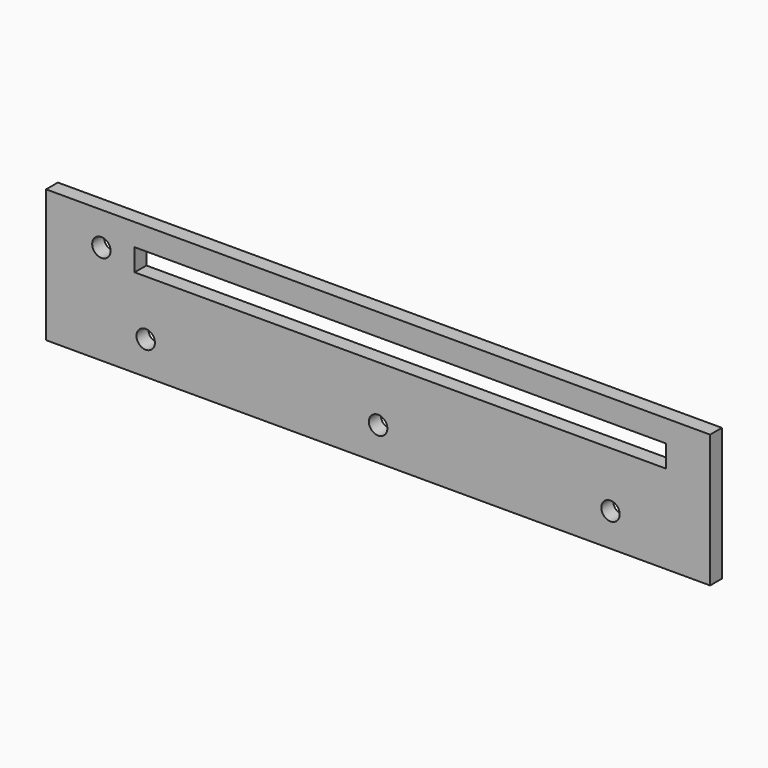
from build123d import *

# Parameters (mm, degrees)
F0_W     = 84
F0_H     = 9
F0_R     = 1.25
F0_W_2   = 72
F0_H_2   = 3
F1_DEPTH = 2


with BuildPart() as f1:
    # F0 (on Front) → F1 (new body)
    with BuildSketch(Plane.XZ):
        Rectangle(F0_W, F0_H)
        with Locations((-37.5, 0)):
            Circle(F0_R, mode=Mode.SUBTRACT)
        with Locations((3, 0)):
            Rectangle(F0_W_2, F0_H_2, mode=Mode.SUBTRACT)
        Polygon((45, 4.5), (42, 4.5), (42, -4.5), (42, -13.5), (45, -13.5), align=None)
        Polygon((-42, -4.5), (-42, 4.5), (-45, 4.5), (-45, -13.5), (-42, -13.5), align=None)
        with Locations((0, -9)):
            Rectangle(F0_W, F0_H)
        with Locations((-31.5, -9)):
            Circle(F0_R, mode=Mode.SUBTRACT)
        with Locations((0, -9)):
            Circle(F0_R, mode=Mode.SUBTRACT)
        with Locations((31.5, -9)):
            Circle(F0_R, mode=Mode.SUBTRACT)
    extrude(amount=F1_DEPTH)


solid = f1.part
